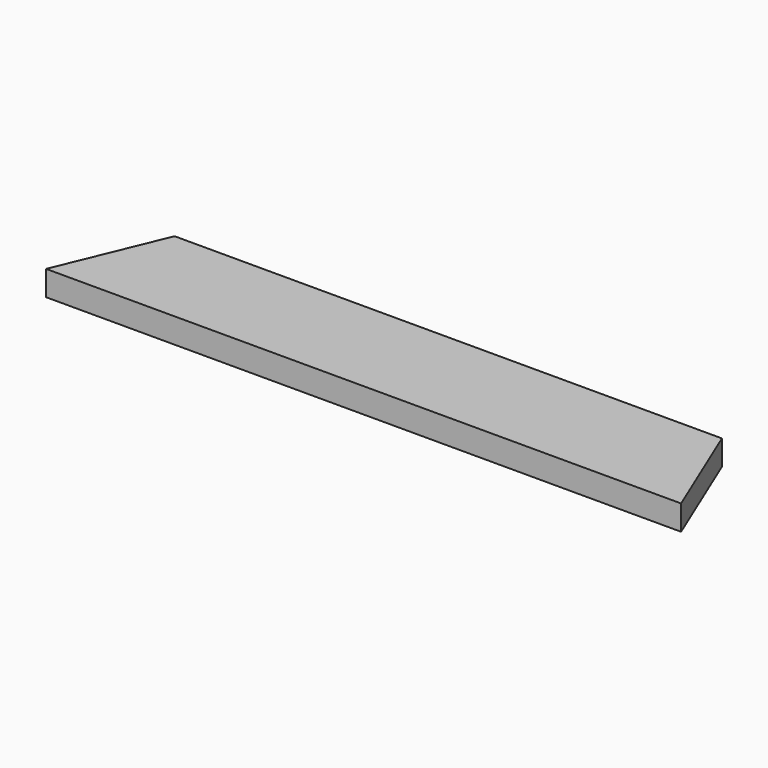
from build123d import *

# Parameters (mm, degrees)
F0_W     = 840
F0_H     = 140
F1_DEPTH = 16.5
F3_DEPTH = 33.001


with BuildPart() as f1:
    # F0 (on Top) → F1 (new body, symmetric)
    with BuildSketch(Plane.XY):
        Rectangle(F0_W, F0_H)
    extrude(amount=F1_DEPTH, both=True)

    # F2 (on face) → F3 (cut, through all)
    with BuildSketch(Plane.XY.offset(16.5)):
        Polygon((-420, 70), (-420, -70), (-362.010101, 70), align=None)
        Polygon((420, -70), (420, 70), (362.010101, 70), align=None)
    extrude(amount=-F3_DEPTH, mode=Mode.SUBTRACT)


solid = f1.part
